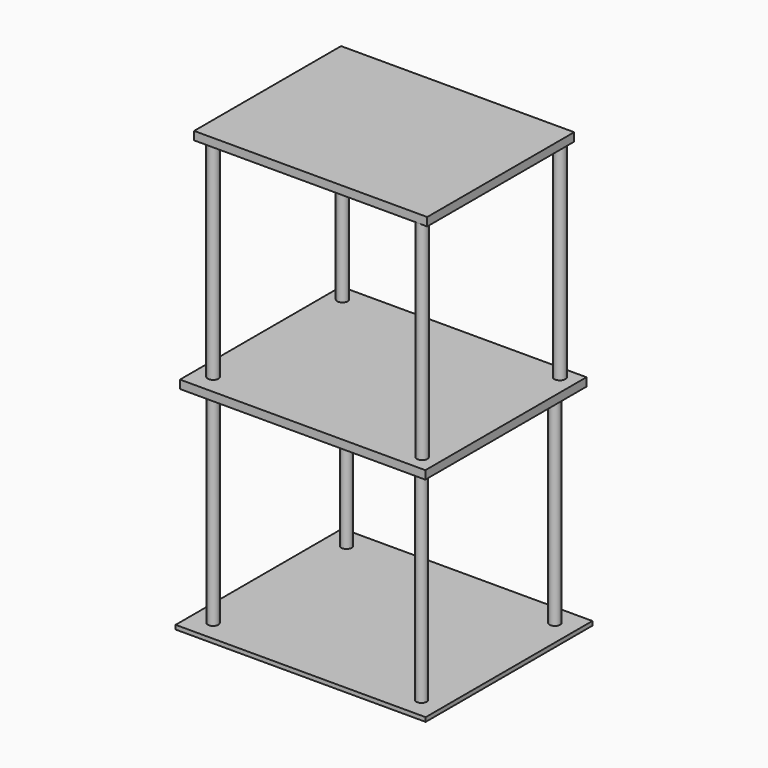
from build123d import *

# Parameters (mm, degrees)
F0_W     = 152.4
F0_H     = 127
F1_DEPTH = 2.54
F2_R     = 3.175
F3_DEPTH = 127
F4_W     = 149.529047
F4_H     = 122.721277
F4_R     = 3.175
F5_DEPTH = 5.08
F6_R     = 3.279674
F6_R_2   = 3.20872
F6_R_3   = 3.343947
F6_R_4   = 3.247931
F7_DEPTH = 127
F8_W     = 142.083116
F8_H     = 111.952372
F9_DEPTH = 5.08


with BuildPart() as f1:
    # F0 (on Top) → F1 (new body)
    with BuildSketch(Plane.XY):
        with Locations((8.233837, 2.181631)):
            Rectangle(F0_W, F0_H)
    extrude(amount=-F1_DEPTH)

    # F2 (on face) → F3 (join)
    with BuildSketch(Plane.XY):
        with Locations((-55.266163, -48.618369)):
            Circle(F2_R)
        with Locations((-55.266163, 52.981631)):
            Circle(F2_R)
        with Locations((71.733837, 52.981631)):
            Circle(F2_R)
        with Locations((71.733837, -48.618369)):
            Circle(F2_R)
    extrude(amount=F3_DEPTH)


with BuildPart() as f5:
    # F4 (on face) → F5 (new body)
    with BuildSketch(Plane.XY.offset(127)):
        with Locations((9.008336, 0.615951)):
            Rectangle(F4_W, F4_H)
        with Locations((-55.266163, -48.618369)):
            Circle(F4_R, mode=Mode.SUBTRACT)
    extrude(amount=F5_DEPTH)


with BuildPart() as f7:
    # F6 (on face) → F7 (new body)
    with BuildSketch(Plane.XY.offset(132.08)):
        with Locations((-55.266163, -48.618369)):
            Circle(F6_R)
        with Locations((-56.994699, 52.072097)):
            Circle(F6_R_2)
        with Locations((73.856063, 54.126266)):
            Circle(F6_R_3)
        with Locations((74.061476, -51.047344)):
            Circle(F6_R_4)
    extrude(amount=F7_DEPTH)


with BuildPart() as f9:
    # F8 (on face) → F9 (new body)
    with BuildSketch(Plane.XY.offset(259.08)):
        with Locations((8.911427, 1.436751)):
            Rectangle(F8_W, F8_H)
    extrude(amount=F9_DEPTH)


solid = Compound([f1.part, f5.part, f7.part, f9.part])
